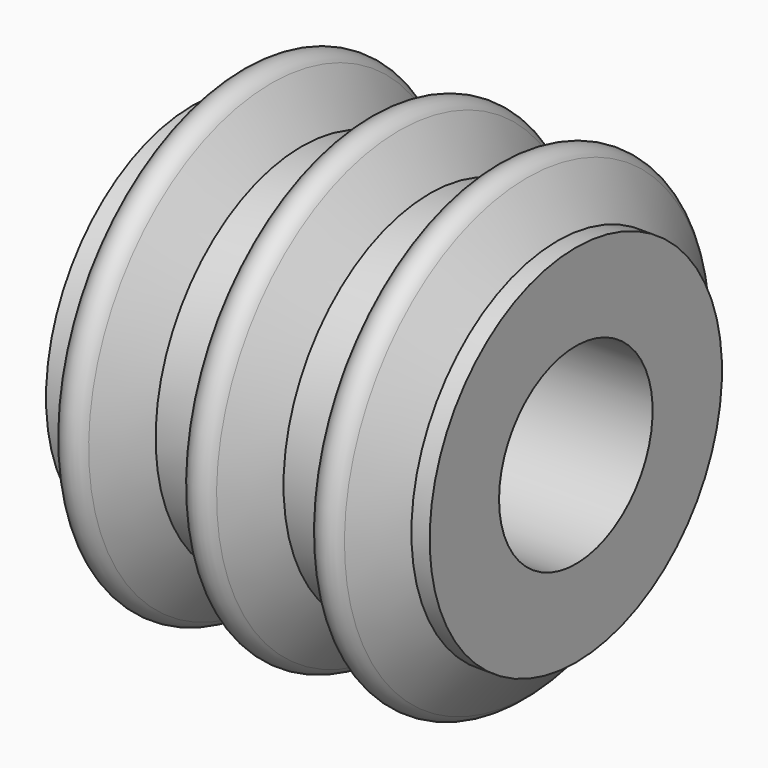
from build123d import *

# Parameters (mm, degrees)
F2_R     = 5.254137
F3_DEPTH = 21.001


with BuildPart() as f1:
    # F0 (on Front) → F1 (revolve)
    with BuildSketch(Plane.XZ):
        with BuildLine():
            Line((-10.5, 35.596944), (-10.5, 25.596944))
            Line((-10.5, 25.596944), (10.5, 25.596944))
            Line((10.5, 25.596944), (10.5, 35.596944))
            Line((10.5, 35.596944), (9.5, 35.596944))
            Line((9.5, 35.596944), (7.831313, 38.092791))
            ThreePointArc((7.831313, 38.092791), (7, 38.536987), (6.168687, 38.092791))
            Line((6.168687, 38.092791), (4.5, 35.596944))
            Line((4.5, 35.596944), (2.5, 35.596944))
            Line((2.5, 35.596944), (0.831313, 38.092791))
            ThreePointArc((0.831313, 38.092791), (0, 38.536987), (-0.831313, 38.092791))
            Line((-0.831313, 38.092791), (-2.5, 35.596944))
            Line((-2.5, 35.596944), (-4.5, 35.596944))
            Line((-4.5, 35.596944), (-6.168687, 38.092791))
            ThreePointArc((-6.168687, 38.092791), (-7, 38.536987), (-7.831313, 38.092791))
            Line((-7.831313, 38.092791), (-9.5, 35.596944))
            Line((-9.5, 35.596944), (-10.5, 35.596944))
        make_face()
    revolve(axis=Axis((0, 0, 25.596944), (1, 0, 0)))

    # F2 (on face) → F3 (cut, through all)
    with BuildSketch(Plane(origin=(-10.5, 0, 0), x_dir=(0, -1, 0), z_dir=(-1, 0, 0))):
        with Locations((0, 25.596944)):
            Circle(F2_R)
    extrude(amount=-F3_DEPTH, mode=Mode.SUBTRACT)


solid = f1.part
